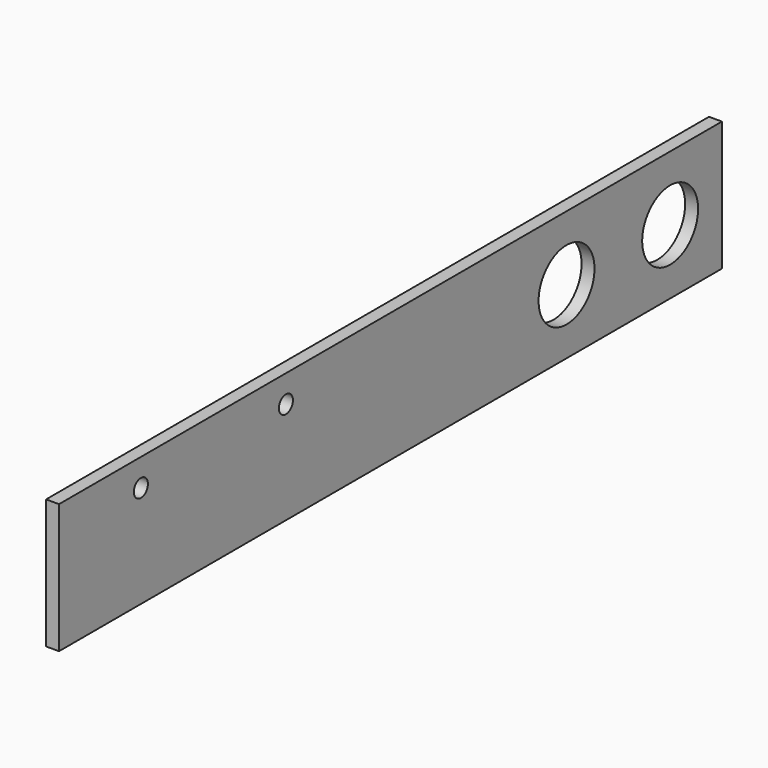
from build123d import *

# Parameters (mm, degrees)
F0_W     = 203.2
F0_H     = 31.75
F1_DEPTH = 3.175
F3_D     = 17.145
F4_D     = 4.318


with BuildPart() as f1:
    # F0 (on Right) → F1 (new body)
    with BuildSketch(Plane.YZ):
        Rectangle(F0_W, F0_H)
    extrude(amount=-F1_DEPTH)

    # F3 (through all)
    with Locations(Plane.YZ):
        with Locations((85.725, 0), (53.975, 0)):
            Hole(F3_D / 2)

    # F4 (through all)
    with Locations(Plane.YZ):
        with Locations((-76.50988, 9.17702), (-32.05988, 9.17702)):
            Hole(F4_D / 2)


solid = f1.part
